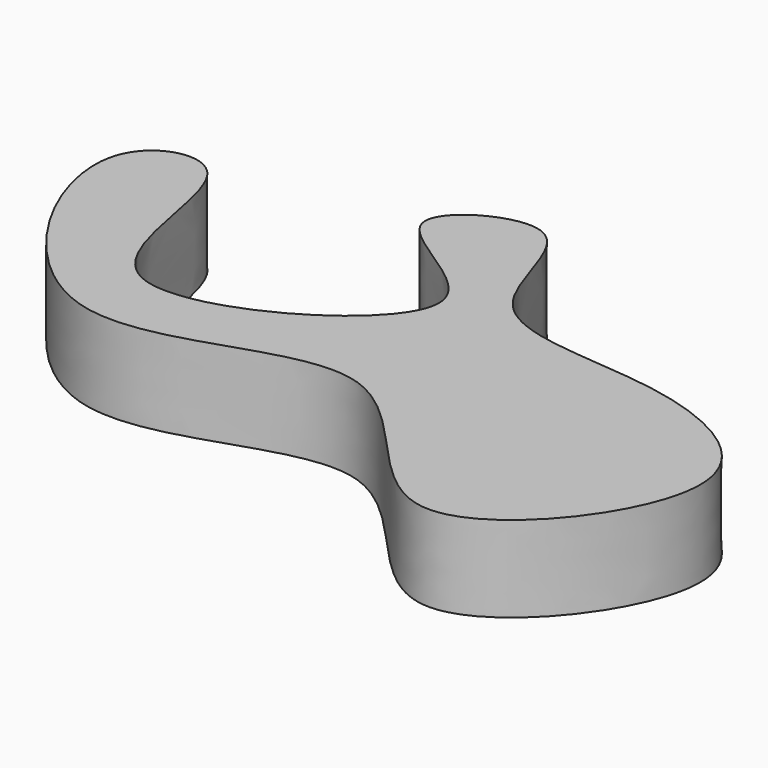
from build123d import *

# Parameters (mm, degrees)
F1_DEPTH = 25


with BuildPart() as f1:
    # F0 (on Top) → F1 (new body)
    with BuildSketch(Plane.XY):
        with BuildLine():
            add(Edge.make_bspline(
                [(-60.1109489799, 43.1804731488), (-61.0674921094, 50.6646526761), (-26.7242001926, 69.7597347754), (-27.0507395508, 10.3031563843), (32.3526155209, 17.6170905316), (90.3040322373, -11.6828323925), (23.3691675602, -97.3900922604), (-18.0870807265, 0.4571577623), (-98.8942107282, -67.8526103261), (-152.6929250948, 28.8335059159), (-102.0694509699, 43.3401762343), (-113.2749606041, -48.563797552), (1.0548120239, 17.3961703034), (-58.947016334, 34.0736377011), (-60.1109489799, 43.1804731488)],
                knots=[0, 0, 0, 0, 0.0607755233, 0.1323648167, 0.2172899786, 0.2983621167, 0.3919495085, 0.4861739561, 0.5863868216, 0.6873542799, 0.7421254701, 0.8288612616, 0.9260476466, 1, 1, 1, 1], degree=3))
        make_face()
    extrude(amount=F1_DEPTH)


solid = f1.part
